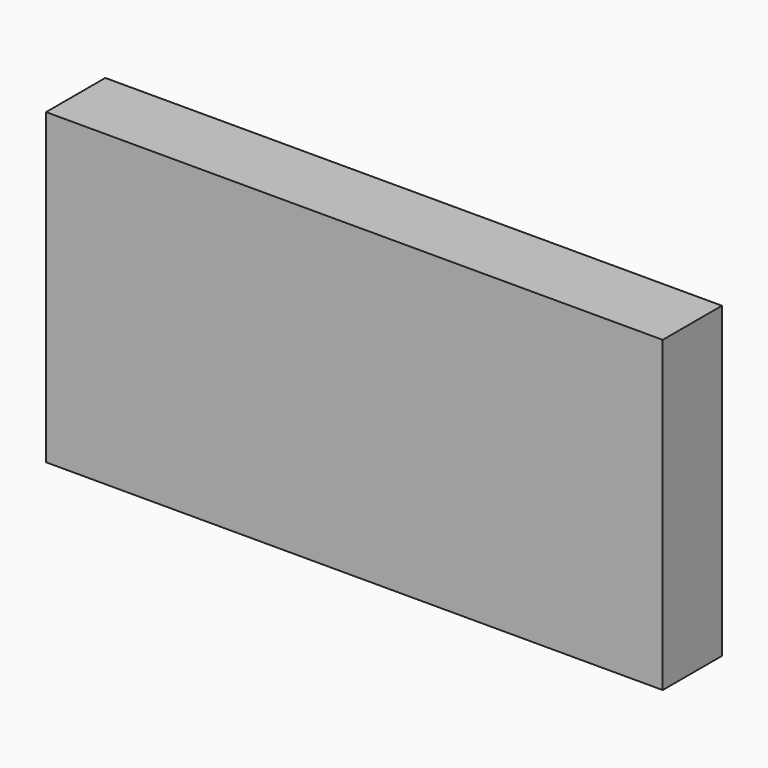
from build123d import *

# Parameters (mm, degrees)
SKETCH_W      = 100
SKETCH_H      = 12
EXTRUDE_DEPTH = 50


with BuildPart() as part:
    # Sketch → Extrude (new body)
    with BuildSketch(Plane.XY):
        Rectangle(SKETCH_W, SKETCH_H)
    extrude(amount=EXTRUDE_DEPTH)


solid = part.part
